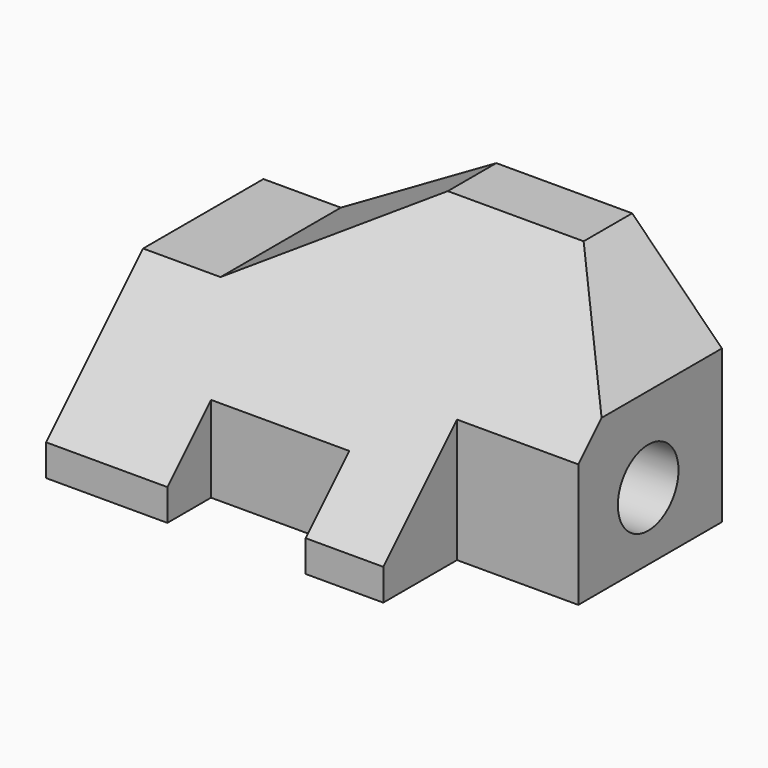
from build123d import *

# Parameters (mm, degrees)
F0_W      = 96.012
F0_H      = 56.896
F1_DEPTH  = 50.8
F3_DEPTH  = 96.012
F5_DEPTH  = 31.75
F7_DEPTH  = 25.4
F8_W      = 28.956
F8_H      = 11.43
F9_DEPTH  = 59.436
F11_DEPTH = 37.084
F12_R     = 7.9375
F13_DEPTH = 25.4


with BuildPart() as f1:
    # F0 (on Top) → F1 (new body)
    with BuildSketch(Plane.XY):
        Rectangle(F0_W, F0_H)
    extrude(amount=F1_DEPTH)

    # F2 (on face) → F3 (cut)
    with BuildSketch(Plane.YZ.offset(48.006)):
        Polygon((-28.448, 6.604), (15.748, 50.8), (-28.448, 50.8), align=None)
    extrude(amount=-F3_DEPTH, mode=Mode.SUBTRACT)

    # F4 (on face) → F5 (cut)
    with BuildSketch(Plane(origin=(0, 28.448, 0), x_dir=(-1, 0, 0), z_dir=(0, 1, 0))):
        Polygon((-48.006, 32.004), (-29.21, 50.8), (-48.006, 50.8), align=None)
    extrude(amount=-F5_DEPTH, mode=Mode.SUBTRACT)

    # F6 (on face) → F7 (cut)
    with BuildSketch(Plane.YZ.offset(48.006)):
        Polygon((-9.144, 25.908), (-28.448, 6.604), (-28.448, 0), (-9.144, 0), align=None)
    extrude(amount=-F7_DEPTH, mode=Mode.SUBTRACT)

    # F8 (on face) → F9 (cut)
    with BuildSketch(Plane(origin=(0, 0, 0), x_dir=(1, 0, 0), z_dir=(0, 0, -1))):
        with Locations((-8.128, 22.733)):
            Rectangle(F8_W, F8_H)
    extrude(amount=-F9_DEPTH, mode=Mode.SUBTRACT)

    # F10 (on face) → F11 (cut)
    with BuildSketch(Plane(origin=(0, 28.448, 0), x_dir=(-1, 0, 0), z_dir=(0, 1, 0))):
        Polygon((48.006, 50.8), (-0.762, 50.8), (31.793627, 32.004), (48.006, 32.004), align=None)
    extrude(amount=-F11_DEPTH, mode=Mode.SUBTRACT)

    # F12 (on face) → F13 (cut)
    with BuildSketch(Plane.YZ.offset(48.006)):
        with Locations((9.145532, 14.183054)):
            Circle(F12_R)
    extrude(amount=-F13_DEPTH, mode=Mode.SUBTRACT)


solid = f1.part
